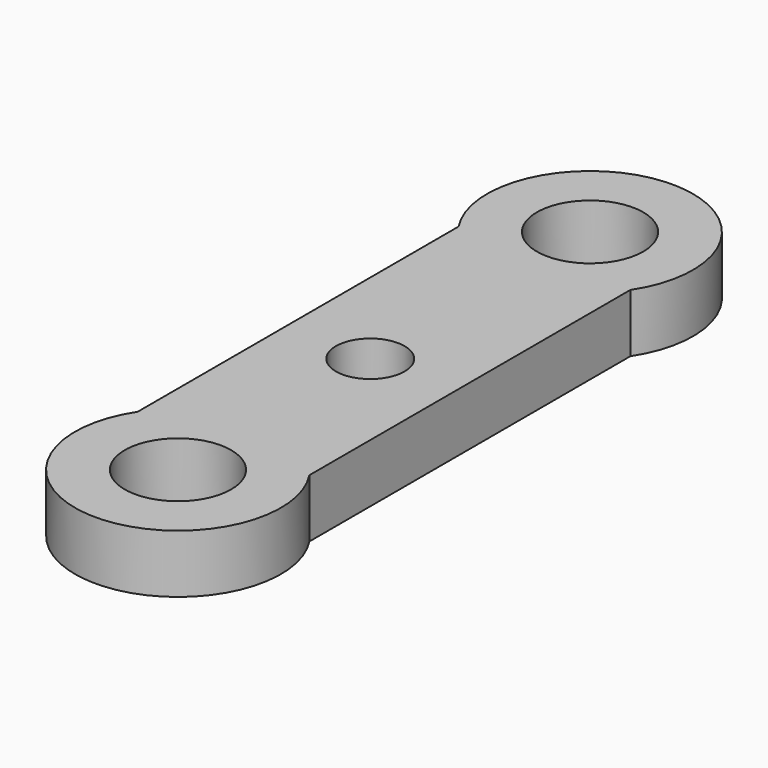
from build123d import *

# Parameters (mm, degrees)
CYLINDER010_R     = 1.55
CYLINDER010_DEPTH = 10
CYLINDER_R        = 1
CYLINDER_DEPTH    = 10
CYLINDER009_R     = 1.55
CYLINDER009_DEPTH = 10
CYLINDER011_R     = 3
CYLINDER011_DEPTH = 1.7
BOX_W             = 5
BOX_H             = 19
BOX_DEPTH         = 1.7
FILLET_R          = 1
CYLINDER012_R     = 3
CYLINDER012_DEPTH = 1.7


with BuildPart() as threadedhole006:
    # Cylinder010 → Cylinder010 (new body)
    with BuildSketch(Plane(origin=(0, 8, 0), x_dir=(1, 0, 0), z_dir=(0, 0, 1))):
        Circle(CYLINDER010_R)
    extrude(amount=CYLINDER010_DEPTH)


with BuildPart() as cylinder:
    # Cylinder → Cylinder (new body)
    with BuildSketch(Plane.XY):
        Circle(CYLINDER_R)
    extrude(amount=CYLINDER_DEPTH)


with BuildPart() as fusion005:
    # Cylinder009 → Cylinder009 (new body)
    with BuildSketch(Plane(origin=(0, -7, 0), x_dir=(1, 0, 0), z_dir=(0, 0, 1))):
        Circle(CYLINDER009_R)
    extrude(amount=CYLINDER009_DEPTH)

    # Fusion005: union ThreadedHole006, Cylinder
    add(threadedhole006.part)
    add(cylinder.part)


with BuildPart() as threadedhole007:
    # Cylinder011 → Cylinder011 (new body)
    with BuildSketch(Plane(origin=(0, 8, 0), x_dir=(1, 0, 0), z_dir=(0, 0, 1))):
        Circle(CYLINDER011_R)
    extrude(amount=CYLINDER011_DEPTH)


with BuildPart() as fillet_body:
    # Box → Box (new body)
    with BuildSketch(Plane(origin=(-2.5, -9, 0), x_dir=(1, 0, 0), z_dir=(0, 0, 1))):
        with Locations((2.5, 9.5)):
            Rectangle(BOX_W, BOX_H)
    extrude(amount=BOX_DEPTH)

    # Fillet
    fillet_edges = [fillet_body.edges().sort_by_distance(p)[0] for p in [
        (-2.5, -9, 0.85),
        (-2.5, 10, 0.85),
        (2.5, -9, 0.85),
        (2.5, 10, 0.85),
    ]]
    fillet(fillet_edges, radius=FILLET_R)


with BuildPart() as cut:
    # Cylinder012 → Cylinder012 (new body)
    with BuildSketch(Plane(origin=(0, -7, 0), x_dir=(1, 0, 0), z_dir=(0, 0, 1))):
        Circle(CYLINDER012_R)
    extrude(amount=CYLINDER012_DEPTH)

    # Fusion: union ThreadedHole007, Fillet body
    add(threadedhole007.part)
    add(fillet_body.part)

    # Cut: cut Fusion005
    add(fusion005.part, mode=Mode.SUBTRACT)


solid = cut.part
